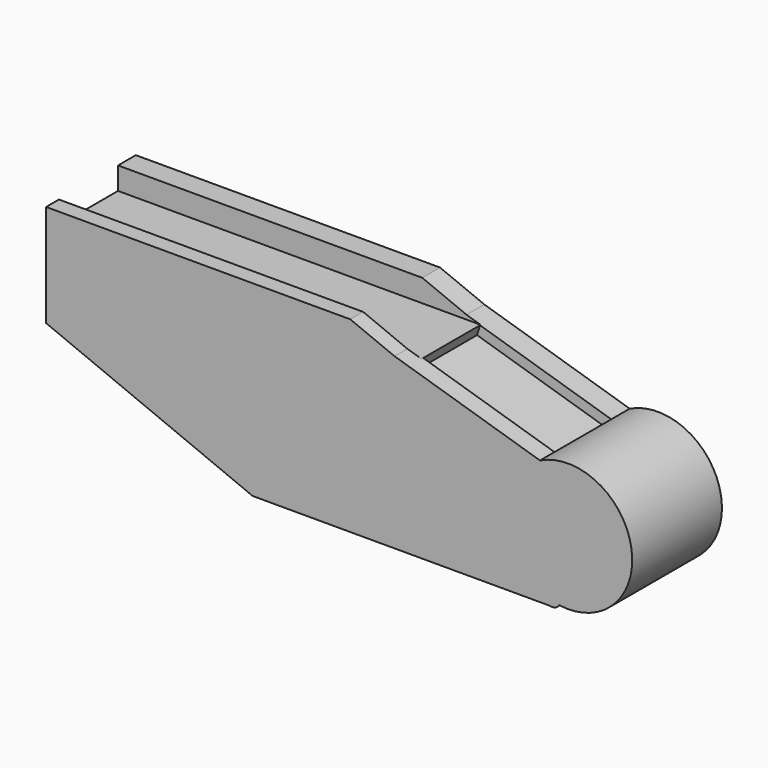
from build123d import *

# Parameters (mm, degrees)
F1_DEPTH = 25.4
F2_W     = 142.5245404243
F2_H     = 16.7245063931
F3_DEPTH = 5.08
F4_W     = 31.0823179224
F4_H     = 16.0704599693
F5_DEPTH = 2.286


with BuildPart() as f1:
    # F0 (on Front) → F1 (new body)
    with BuildSketch(Plane.XZ):
        with BuildLine():
            Line((17.1419177204, 27.2214487195), (-51.7388731241, 27.2214487195))
            Line((-51.7388731241, 27.2214487195), (-51.7388731241, 4.0606581606))
            Line((-51.7388731241, 4.0606581606), (-4.9744974851, -15.1898686591))
            Line((-4.9744974851, -15.1898686591), (58.3500750363, -15.1898692793))
            Line((58.3500750363, -15.1898692793), (62.2612222636, -15.1898693176))
            Line((62.2612222636, -15.1898693176), (63.4634880032, -15.1898693293))
            add(Edge.make_bspline(
                [(64.4092596529, -14.3758283739), (64.1666311948, -14.7868047997), (63.8535709364, -15.0634684427), (63.4634880032, -15.1898693293)],
                knots=[0.3722656756, 0.3722656756, 0.3722656756, 0.3722656756, 0.4188718953, 0.4188718953, 0.4188718953, 0.4188718953], degree=3))
            add(Edge.make_bspline(
                [(60.1013436317, 13.0514085218), (63.7917100626, 0.7586007856), (66.3472466315, -11.0931674362), (64.4092596529, -14.3758283739)],
                knots=[0, 0, 0, 0, 0.3722656756, 0.3722656756, 0.3722656756, 0.3722656756], degree=3))
            Line((60.1013436317, 13.0514085218), (27.1688286692, 23.1228569478))
            Line((27.1688286692, 23.1228569478), (17.1419177204, 27.2214487195))
        make_face()
        with BuildLine():
            ThreePointArc((64.4092596529, -14.3758283739), (80.818481148, 2.2534544809), (60.1013436317, 13.0514085218))
            add(Edge.make_bspline(
                [(60.1013436317, 13.0514085218), (63.7917100626, 0.7586007856), (66.3472466315, -11.0931674362), (64.4092596529, -14.3758283739)],
                knots=[0, 0, 0, 0, 0.3722656756, 0.3722656756, 0.3722656756, 0.3722656756], degree=3))
        make_face()
        with BuildLine():
            Line((63.4634880032, -15.1898693293), (62.2612222636, -15.1898693176))
            add(Edge.make_bspline(
                [(63.4634880032, -15.1898693293), (63.1173511551, -15.3020301053), (62.7105685577, -15.2958777029), (62.2612222636, -15.1898693176)],
                knots=[0.4188718953, 0.4188718953, 0.4188718953, 0.4188718953, 0.4602275369, 0.4602275369, 0.4602275369, 0.4602275369], degree=3))
        make_face()
    extrude(amount=F1_DEPTH)

    # F2 (on face) → F3 (cut)
    with BuildSketch(Plane.XY.offset(27.2214487195)):
        with Locations((12.0256319642, -13.3969103917)):
            Rectangle(F2_W, F2_H)
    extrude(amount=-F3_DEPTH, mode=Mode.SUBTRACT)

    # F4 (on face) → F5 (cut)
    with BuildSketch(Plane(origin=(8.7903255134, 0, 28.7433856833), x_dir=(0.9562806546, 0, -0.2924505251), z_dir=(0.2924505251, 0, 0.9562806546))):
        with Locations((38.115701994, -13.25293025)):
            Rectangle(F4_W, F4_H)
    extrude(amount=-F5_DEPTH, mode=Mode.SUBTRACT)


solid = f1.part
